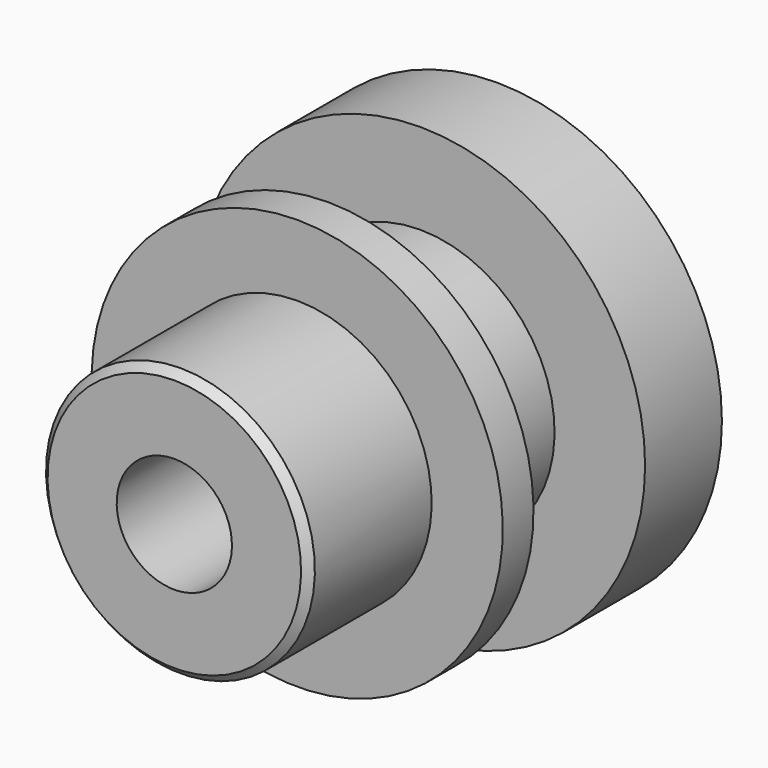
from build123d import *

# Parameters (mm, degrees)
F0_W    = 12.7
F0_H    = 25.4
F0_W_2  = 50.8
F0_W_3  = 19.05
F0_W_4  = 31.75
F0_H_2  = 29.9200265884
F0_H_3  = 23.518068409
F0_W_5  = 38.1
F2_SIZE = 2.54


with BuildPart() as f1:
    # F0 (on Right) → F1 (revolve)
    with BuildSketch(Plane.YZ):
        with Locations((-44.45, 31.75)):
            Rectangle(F0_W, F0_H)
        with Locations((-76.2, 31.75)):
            Rectangle(F0_W_2, F0_H)
        with Locations((41.275, 31.75)):
            Rectangle(F0_W_3, F0_H)
        with Locations((15.875, 59.4100132942)):
            Rectangle(F0_W_4, F0_H_2)
        with Locations((-44.45, 56.2090342045)):
            Rectangle(F0_W, F0_H_3)
        with Locations((-19.05, 31.75)):
            Rectangle(F0_W_5, F0_H)
        with Locations((15.875, 31.75)):
            Rectangle(F0_W_4, F0_H)
    revolve(axis=Axis((0, -50.8, 0), (0, -1, 0)))

    # F2
    f2_edges = [f1.edges().sort_by_distance(p)[0] for p in [
        (0, -101.6, -44.45),
    ]]
    chamfer(f2_edges, length=F2_SIZE)


solid = f1.part
